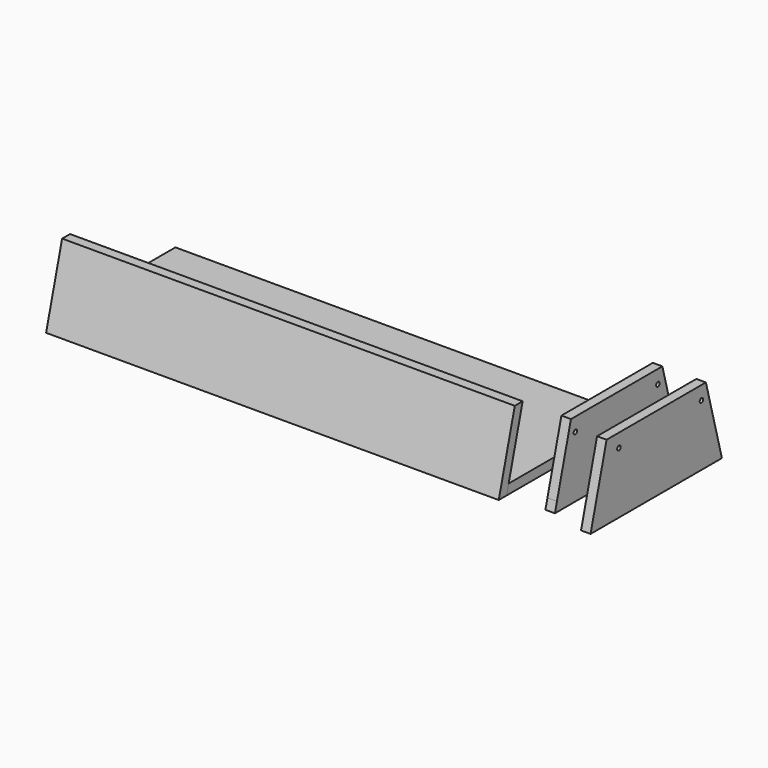
from build123d import *

# Parameters (mm, degrees)
F0_R     = 2.54
F1_DEPTH = 5.55625
F2_DEPTH = 5.55625
F4_DEPTH = 528.32
F6_DEPTH = 528.32


with BuildPart() as f1:
    # F0 (on Right) → F1 (new body, symmetric)
    with BuildSketch(Plane.YZ):
        Polygon((66.675, 38.1), (-66.675, 38.1), (-87.0927284633, -38.1), (87.0927284633, -38.1), align=None)
        with Locations((-60.2107, 22.225)):
            Circle(F0_R, mode=Mode.SUBTRACT)
        with Locations((60.2107, 22.225)):
            Circle(F0_R, mode=Mode.SUBTRACT)
        Polygon((87.0927284633, -38.1), (-87.0927284633, -38.1), (-90.0703138641, -49.2125), (90.0703138641, -49.2125), align=None)
    extrude(amount=F1_DEPTH, both=True)


with BuildPart() as f2:
    # F0 (on Right) → F2 (new body, symmetric)
    with BuildSketch(Plane.YZ):
        Polygon((66.675, 38.1), (-66.675, 38.1), (-87.0927284633, -38.1), (87.0927284633, -38.1), align=None)
        with Locations((-60.2107, 22.225)):
            Circle(F0_R, mode=Mode.SUBTRACT)
        with Locations((60.2107, 22.225)):
            Circle(F0_R, mode=Mode.SUBTRACT)
        Polygon((-87.0927284633, -38.1), (-66.675, 38.1), (-78.1795065548, 38.1), (-101.5748204189, -49.2125), (-90.0703138641, -49.2125), align=None)
        Polygon((87.0927284633, -38.1), (-87.0927284633, -38.1), (-90.0703138641, -49.2125), (90.0703138641, -49.2125), align=None)
    extrude(amount=F2_DEPTH, both=True)


with BuildPart() as f2_1:
    # F3: moved
    add(f2.part.moved(Location((50.8, 0, 0))))


with BuildPart() as f4:
    # F0 (on Right) → F4 (new body)
    with BuildSketch(Plane.YZ):
        Polygon((87.0927284633, -38.1), (-87.0927284633, -38.1), (-90.0703138641, -49.2125), (90.0703138641, -49.2125), align=None)
    extrude(amount=-F4_DEPTH)


with BuildPart() as f4_1:
    # F5: moved
    add(f4.part.moved(Location((-50.8, 0, 0))))


with BuildPart() as f6:
    # F0 (on Right) → F6 (new body)
    with BuildSketch(Plane.YZ):
        Polygon((-87.0927284633, -38.1), (-66.675, 38.1), (-78.1795065548, 38.1), (-101.5748204189, -49.2125), (-90.0703138641, -49.2125), align=None)
    extrude(amount=-F6_DEPTH)


with BuildPart() as f6_1:
    # F7: moved
    add(f6.part.moved(Location((-50.8, 0, 0))))


solid = Compound([f1.part, f2_1.part, f4_1.part, f6_1.part])
